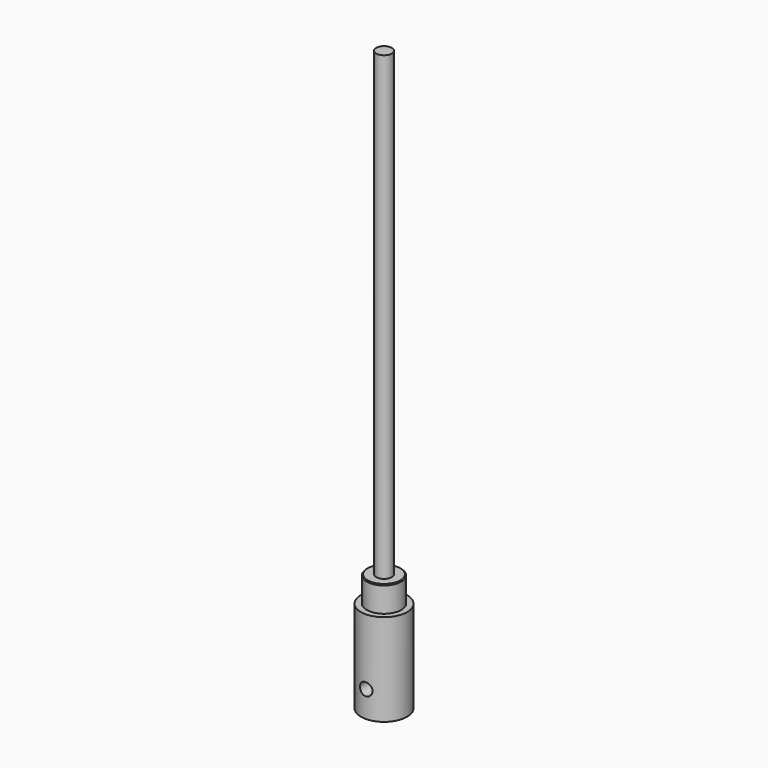
from build123d import *

# Parameters (mm, degrees)
F0_R      = 2.15265
F1_DEPTH  = 127
F2_R      = 4.7625
F3_DEPTH  = 7.112
F4_W      = 50.8
F4_H      = 50.8
F5_DEPTH  = 25.4
F6_R      = 3
F7_DEPTH  = 14.44625
F8_R      = 1.7272
F9_DEPTH  = 23.9470875132
F10_W     = 50.8
F10_H     = 50.8
F10_R     = 6.35
F11_DEPTH = 25.4
F12_SIZE  = 0.254


with BuildPart() as f1:
    # F0 (on Top) → F1 (new body)
    with BuildSketch(Plane.XY):
        Circle(F0_R)
    extrude(amount=F1_DEPTH)

    # F2 (on face) → F3 (join)
    with BuildSketch(Plane(origin=(0, 0, 0), x_dir=(1, 0, 0), z_dir=(0, 0, -1))):
        Circle(F2_R)
    extrude(amount=F3_DEPTH)

    # F4 (on face) → F5 (join)
    with BuildSketch(Plane(origin=(0, 0, -7.112), x_dir=(1, 0, 0), z_dir=(0, 0, -1))):
        Rectangle(F4_W, F4_H)
    extrude(amount=F5_DEPTH)

    # F6 (on face) → F7 (cut)
    with BuildSketch(Plane(origin=(0, 0, -32.512), x_dir=(1, 0, 0), z_dir=(0, 0, -1))):
        Circle(F6_R)
    extrude(amount=-F7_DEPTH, mode=Mode.SUBTRACT)

    # F8 (on face) → F9 (cut, up to face)
    with BuildSketch(Plane.XZ.offset(25.4)):
        with Locations((0, -25.288875)):
            Circle(F8_R)
    extrude(amount=-F9_DEPTH, mode=Mode.SUBTRACT)

    # F10 (on face) → F11 (cut, through all)
    with BuildSketch(Plane(origin=(0, 0, -32.512), x_dir=(1, 0, 0), z_dir=(0, 0, -1))):
        Rectangle(F10_W, F10_H)
        Circle(F10_R, mode=Mode.SUBTRACT)
    extrude(amount=-F11_DEPTH, mode=Mode.SUBTRACT)

    # F12
    f12_edges = [f1.edges().sort_by_distance(p)[0] for p in [
        (-4.7625, 0, 0),
    ]]
    chamfer(f12_edges, length=F12_SIZE)


solid = f1.part
